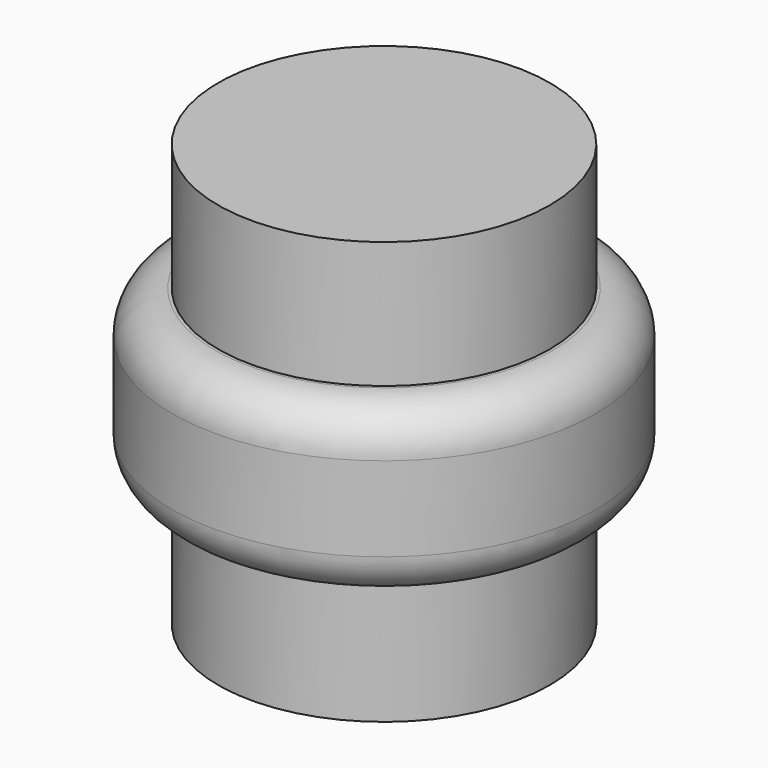
from build123d import *

# Parameters (mm, degrees)
F0_R     = 3.925
F1_DEPTH = 5
F0_R_2   = 5
F2_DEPTH = 2
F3_R     = 1


with BuildPart() as f1:
    # F0 (on Top) → F1 (new body, symmetric)
    with BuildSketch(Plane.XY):
        Circle(F0_R)
    extrude(amount=F1_DEPTH, both=True)

    # F0 (on Top) → F2 (join, symmetric)
    with BuildSketch(Plane.XY):
        Circle(F0_R_2)
        Circle(F0_R, mode=Mode.SUBTRACT)
    extrude(amount=F2_DEPTH, both=True)

    # F3
    f3_edges = [f1.edges().sort_by_distance(p)[0] for p in [
        (-5, 0, 2),
        (-5, 0, -2),
    ]]
    fillet(f3_edges, radius=F3_R)


solid = f1.part
